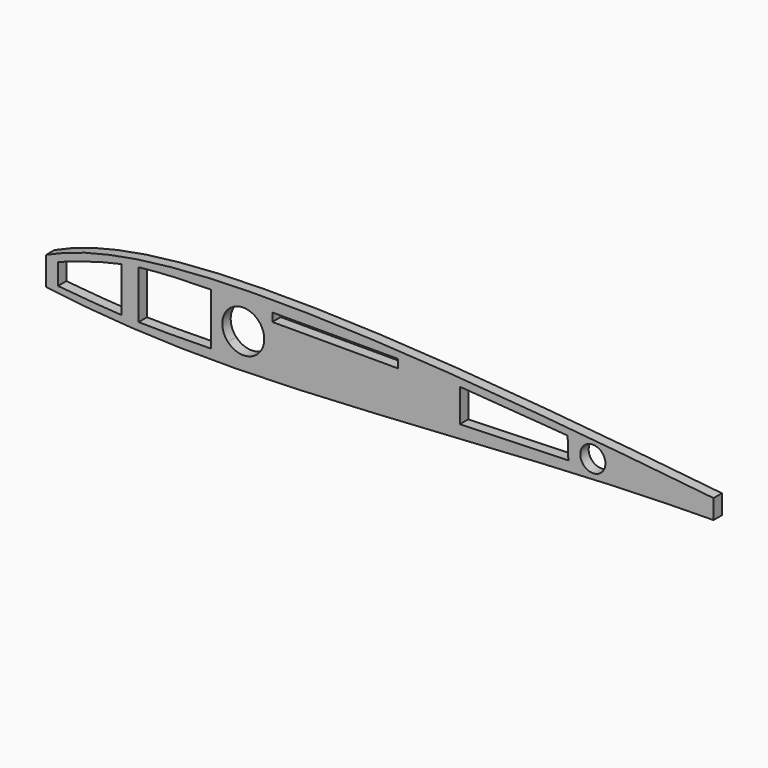
from build123d import *

# Parameters (mm, degrees)
F2_DEPTH = 2.5
F1_R     = 3
F3_DEPTH = 2.5
F5_DEPTH = 2.5
F4_W     = 30
F4_H     = 2
F6_DEPTH = 2.5
F7_DEPTH = 2.5


with BuildPart() as f2:
    # F0 (on Front) → F2 (new body)
    with BuildSketch(Plane.XZ):
        with BuildLine():
            add(Edge.make_bspline(
                [(-96.9805282175, -0.8100506688), (-84.7869920978, 5.1468541776), (-38.6381415733, 10.9636146396), (42.6881882799, 2.4723259958), (100, -4.047003109)],
                knots=[0, 0, 0, 0, 0.374886421, 1, 1, 1, 1], degree=3))
            add(Edge.make_bspline(
                [(-97.5447368223, -7.1186651935), (-99.939251346, -6.5508492693), (-102.885147974, -5.168950634), (-100.0067471137, -2.3789404522), (-96.9805282175, -0.8100506688)],
                knots=[0.0564585679, 0.0564585679, 0.0564585679, 0.0564585679, 0.4847104148, 1, 1, 1, 1], degree=3))
            add(Edge.make_bspline(
                [(-96.5428845142, -7.3406707446), (-96.8949965543, -7.2673488468), (-97.22905608, -7.1935231869), (-97.5447368223, -7.1186651935)],
                knots=[0, 0, 0, 0, 0.0564585679, 0.0564585679, 0.0564585679, 0.0564585679], degree=3))
            add(Edge.make_bspline(
                [(-96.5428845142, -7.3406707446), (-80.7020161693, -9.4302402111), (-44.2471235075, -11.1181020976), (41.8622965332, -3.5518856086), (82.0915186506, -4.6802794425), (100, -4.047003109)],
                knots=[0, 0, 0, 0, 0.2987594418, 0.6837410955, 1, 1, 1, 1], degree=3))
        make_face()
        with BuildLine():
            add(Edge.make_bspline(
                [(-99.8196757147, -4.047003109), (-99.3821638101, -3.2227137691), (-97.9006497107, -2.3042858417), (-96.3385477662, -1.6362179573)],
                knots=[0.5425000514, 0.5425000514, 0.5425000514, 0.5425000514, 1, 1, 1, 1], degree=3))
            add(Edge.make_bspline(
                [(-96.3385477662, -1.6362179573), (-85.7442874691, 3.2900694446), (-38.7960585931, 10.0747672146), (36.943279708, 1.696590452), (86.094097513, -3.3751911245)],
                knots=[0, 0, 0, 0, 0.384923117, 1, 1, 1, 1], degree=3))
            add(Edge.make_bspline(
                [(-97.3825784566, -6.0471531808), (-82.3468325761, -8.841713568), (-44.2551066449, -8.6286827794), (40.9195716837, -3.3120714751), (72.7341022162, -3.1550192186), (86.094097513, -3.3751911245)],
                knots=[0, 0, 0, 0, 0.3131273629, 0.7122131732, 1, 1, 1, 1], degree=3))
            add(Edge.make_bspline(
                [(-97.3825784566, -6.0471531808), (-98.6588937786, -5.8946130057), (-100.1661659123, -5.1778479876), (-99.9138553768, -4.2244412327), (-99.8196757147, -4.047003109)],
                knots=[0, 0, 0, 0, 0.4440177242, 0.5425000514, 0.5425000514, 0.5425000514, 0.5425000514], degree=3))
        make_face(mode=Mode.SUBTRACT)
        with BuildLine():
            add(Edge.make_bspline(
                [(-96.3385477662, -1.6362179573), (-85.7442874691, 3.2900694446), (-38.7960585931, 10.0747672146), (36.943279708, 1.696590452), (86.094097513, -3.3751911245)],
                knots=[0, 0, 0, 0, 0.384923117, 1, 1, 1, 1], degree=3))
            add(Edge.make_bspline(
                [(-99.8196757147, -4.047003109), (-99.3821638101, -3.2227137691), (-97.9006497107, -2.3042858417), (-96.3385477662, -1.6362179573)],
                knots=[0.5425000514, 0.5425000514, 0.5425000514, 0.5425000514, 1, 1, 1, 1], degree=3))
            add(Edge.make_bspline(
                [(-97.3825784566, -6.0471531808), (-98.6588937786, -5.8946130057), (-100.1661659123, -5.1778479876), (-99.9138553768, -4.2244412327), (-99.8196757147, -4.047003109)],
                knots=[0, 0, 0, 0, 0.4440177242, 0.5425000514, 0.5425000514, 0.5425000514, 0.5425000514], degree=3))
            add(Edge.make_bspline(
                [(-97.3825784566, -6.0471531808), (-82.3468325761, -8.841713568), (-44.2551066449, -8.6286827794), (40.9195716837, -3.3120714751), (72.7341022162, -3.1550192186), (86.094097513, -3.3751911245)],
                knots=[0, 0, 0, 0, 0.3131273629, 0.7122131732, 1, 1, 1, 1], degree=3))
        make_face()
        with BuildLine():
            add(Edge.make_bspline(
                [(-96.5428845142, -7.3406707446), (-96.8949965543, -7.2673488468), (-97.22905608, -7.1935231869), (-97.5447368223, -7.1186651935)],
                knots=[0, 0, 0, 0, 0.0564585679, 0.0564585679, 0.0564585679, 0.0564585679], degree=3))
            ThreePointArc((-97.5447368223, -7.1186651935), (-97.052492706, -7.2688477084), (-96.5428845142, -7.3406707446))
        make_face()
    extrude(amount=F2_DEPTH)


with BuildPart() as f2b:
    # F1 (on Front) → F2, piece 2 (new body)
    with BuildSketch(Plane.XZ):
        with Locations((33.7789729238, -1.0305350879)):
            Circle(F1_R)
    extrude(amount=F2_DEPTH)


with BuildPart() as f2c:
    # F1 (on Front) → F2, piece 3 (new body)
    with BuildSketch(Plane.XZ):
        with BuildLine():
            ThreePointArc((-44.542362095, -1.3708024857), (-51.3662704709, 3.2846629299), (-53.2117053896, -4.7672594318))
            Line((-53.2117053896, -4.7672594318), (-45.8404576082, -4.7317403266))
            ThreePointArc((-45.8404576082, -4.7317403266), (-44.8781621403, -3.1722571154), (-44.542362095, -1.3708024857))
        make_face()
        with BuildLine():
            Line((-45.8404576082, -4.7317403266), (-53.2117053896, -4.7672594318))
            ThreePointArc((-53.2117053896, -4.7672594318), (-49.5182693675, -6.3707444394), (-45.8404576082, -4.7317403266))
        make_face()
    extrude(amount=F2_DEPTH)


with BuildPart() as f3_tool:
    # F1 (on Front) → F3 (new body)
    with BuildSketch(Plane.XZ):
        with BuildLine():
            ThreePointArc((-44.542362095, -1.3708024857), (-51.3662704709, 3.2846629299), (-53.2117053896, -4.7672594318))
            Line((-53.2117053896, -4.7672594318), (-45.8404576082, -4.7317403266))
            ThreePointArc((-45.8404576082, -4.7317403266), (-44.8781621403, -3.1722571154), (-44.542362095, -1.3708024857))
        make_face()
        with BuildLine():
            Line((-45.8404576082, -4.7317403266), (-53.2117053896, -4.7672594318))
            ThreePointArc((-53.2117053896, -4.7672594318), (-49.5182693675, -6.3707444394), (-45.8404576082, -4.7317403266))
        make_face()
        with Locations((33.7789729238, -1.0305350879)):
            Circle(F1_R)
    extrude(amount=F3_DEPTH)


with BuildPart() as f2_1:
    add(f2.part)

    # F3: cut by f3_tool
    add(f3_tool.part, mode=Mode.SUBTRACT)

    # F4 (on face) → F5 (cut)
    with BuildSketch(Plane.XZ.offset(2.5)):
        with BuildLine():
            Line((-96.5428845142, -7.3406707446), (-96.5428845142, -0.5989118026))
            add(Edge.make_bspline(
                [(-96.9805282175, -0.8100506688), (-96.8353706427, -0.7391368787), (-96.6894893165, -0.6687582494), (-96.5428845142, -0.5989118026)],
                knots=[0, 0, 0, 0, 0.0044628238, 0.0044628238, 0.0044628238, 0.0044628238], degree=3))
            add(Edge.make_bspline(
                [(-96.9805282175, -0.8100506688), (-100.0067471137, -2.3789404522), (-102.885147974, -5.168950634), (-99.939251346, -6.5508492693), (-97.5447368223, -7.1186651935)],
                knots=[0.0564585679, 0.0564585679, 0.0564585679, 0.0564585679, 0.5717481532, 1, 1, 1, 1], degree=3))
            ThreePointArc((-97.5447368223, -7.1186651935), (-97.052492706, -7.2688477084), (-96.5428845142, -7.3406707446))
        make_face()
    extrude(amount=-F5_DEPTH, mode=Mode.SUBTRACT)

    # F4 (on face) → F6 (cut)
    with BuildSketch(Plane.XZ.offset(2.5)):
        with BuildLine():
            Line((-78.6215588156, -7.3670944992), (-78.6215588156, 3.2958948603))
            add(Edge.make_bspline(
                [(-78.6215588156, 3.2958948603), (-83.9345486349, 2.2532028855), (-88.8194569144, 0.5548157735), (-93.7043651938, -1.1435713386)],
                knots=[0.554896308, 0.554896308, 0.554896308, 0.554896308, 1, 1, 1, 1], degree=3))
            Line((-93.7043651938, -1.1435713386), (-93.7043651938, -6.1954581179))
            add(Edge.make_bspline(
                [(-78.6215588156, -7.3670944992), (-83.7013643272, -7.1077100258), (-88.7028647605, -6.6515840718), (-93.7043651938, -6.1954581179)],
                knots=[0.5793594661, 0.5793594661, 0.5793594661, 0.5793594661, 1, 1, 1, 1], degree=3))
        make_face()
        with BuildLine():
            Line((-57.251535356, -7.4831936508), (-57.251535356, 4.8988820054))
            add(Edge.make_bspline(
                [(-57.251535356, 4.8988820054), (-63.1249518816, 4.7812850577), (-68.9983684072, 4.66368811), (-74.4892291338, 3.9601280834)],
                knots=[0, 0, 0, 0, 0.4418705618, 0.4418705618, 0.4418705618, 0.4418705618], degree=3))
            Line((-74.4892291338, 3.9601280834), (-74.4892291338, -7.5306241193))
            add(Edge.make_bspline(
                [(-57.251535356, -7.4831936508), (-63.0319736557, -7.5857864832), (-68.8124119553, -7.6883793156), (-74.4892291338, -7.5306241193)],
                knots=[0, 0, 0, 0, 0.4658094847, 0.4658094847, 0.4658094847, 0.4658094847], degree=3))
        make_face()
        with Locations((-27.6331795752, 3.8601249214)):
            Rectangle(F4_W, F4_H)
        Polygon((27.7735989974, 1.9125135442), (2.0833725575, 3.8092588075), (2.0833725575, -4.047003109), (27.937149629, -3.2237600535), align=None)
    extrude(amount=-F6_DEPTH, mode=Mode.SUBTRACT)

    # F4 (on face) → F7 (cut)
    with BuildSketch(Plane.XZ.offset(2.5)):
        with BuildLine():
            add(Edge.make_bspline(
                [(62.5460875734, 0.1020588345), (74.6514883615, -1.1873862537), (87.1633646635, -2.586811085), (100, -4.047003109)],
                knots=[0.8599877614, 0.8599877614, 0.8599877614, 0.8599877614, 1, 1, 1, 1], degree=3))
            Line((62.5460875734, 0.1020588345), (62.5460875734, -4.518638291))
            add(Edge.make_bspline(
                [(62.5460875734, -4.518638291), (75.9097127299, -4.3829595873), (88.0075171585, -4.4710790211), (100, -4.047003109)],
                knots=[0.7882160183, 0.7882160183, 0.7882160183, 0.7882160183, 1, 1, 1, 1], degree=3))
        make_face()
    extrude(amount=-F7_DEPTH, mode=Mode.SUBTRACT)


with BuildPart() as f2b_1:
    add(f2b.part)

    # F3: cut by f3_tool
    add(f3_tool.part, mode=Mode.SUBTRACT)


with BuildPart() as f2c_1:
    add(f2c.part)

    # F3: cut by f3_tool
    add(f3_tool.part, mode=Mode.SUBTRACT)


solid = f2_1.part
